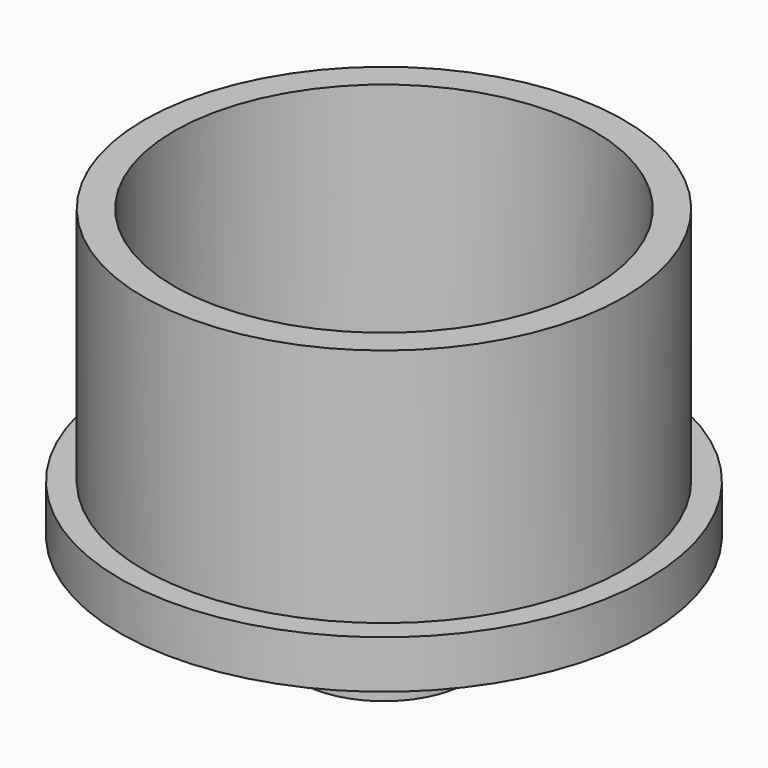
from build123d import *

# Parameters (mm, degrees)
F0_R     = 11
F0_R_2   = 10
F0_R_3   = 8.75
F0_R_4   = 7.25
F0_R_5   = 3.5
F0_R_6   = 2.75
F1_DEPTH = 2
F2_DEPTH = 4.25
F3_DEPTH = 12


with BuildPart() as f1:
    # F0 (on Top) → F1 (new body)
    with BuildSketch(Plane.XY):
        Circle(F0_R)
        Circle(F0_R_2, mode=Mode.SUBTRACT)
        Circle(F0_R_2)
        Circle(F0_R_3, mode=Mode.SUBTRACT)
        Circle(F0_R_3)
        Circle(F0_R_4, mode=Mode.SUBTRACT)
        Circle(F0_R_4)
        Circle(F0_R_5, mode=Mode.SUBTRACT)
        Circle(F0_R_5)
        Circle(F0_R_6, mode=Mode.SUBTRACT)
    extrude(amount=F1_DEPTH)

    # F0 (on Top) → F2 (join)
    with BuildSketch(Plane.XY):
        Circle(F0_R_5)
        Circle(F0_R_6, mode=Mode.SUBTRACT)
    extrude(amount=-F2_DEPTH)

    # F0 (on Top) → F3 (join)
    with BuildSketch(Plane.XY):
        Circle(F0_R_2)
        Circle(F0_R_3, mode=Mode.SUBTRACT)
    extrude(amount=F3_DEPTH)


solid = f1.part
